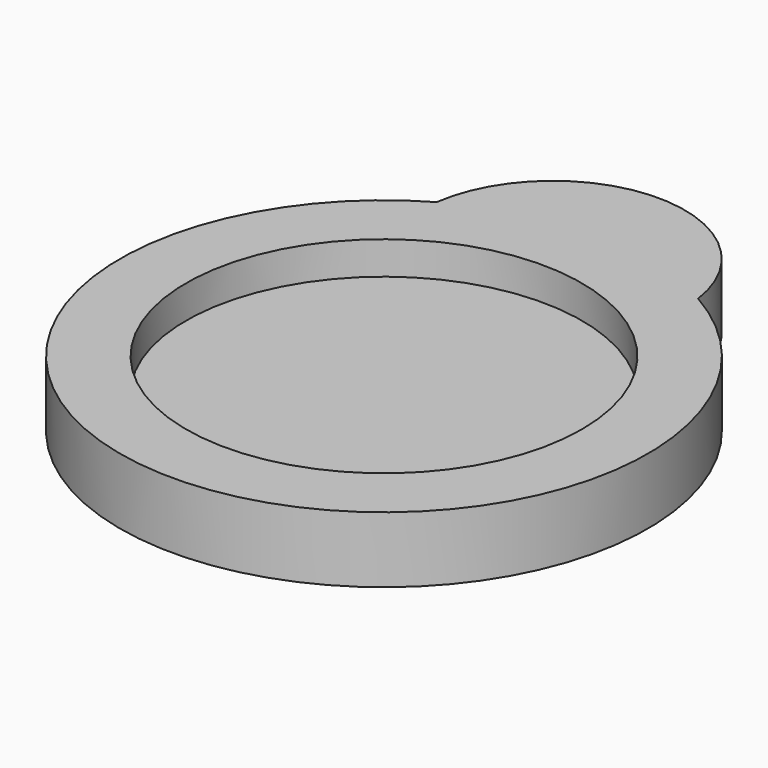
from build123d import *

# Parameters (mm, degrees)
F1_DEPTH = 4
F2_R     = 12
F3_DEPTH = 2


with BuildPart() as f1:
    # F0 (on Top) → F1 (new body)
    with BuildSketch(Plane.XY):
        with BuildLine():
            ThreePointArc((7.922866, 13.900654), (0, 20.792417), (-7.922866, 13.900654))
            ThreePointArc((-7.922866, 13.900654), (0, -16), (7.922866, 13.900654))
        make_face()
    extrude(amount=F1_DEPTH)

    # F2 (on face) → F3 (cut)
    with BuildSketch(Plane.XY.offset(4)):
        Circle(F2_R)
    extrude(amount=-F3_DEPTH, mode=Mode.SUBTRACT)


solid = f1.part
